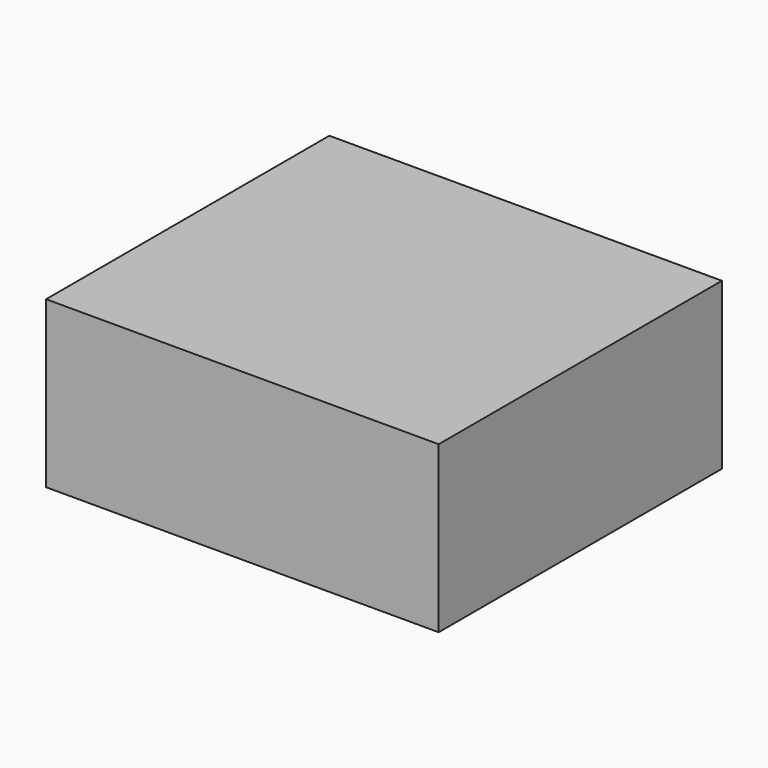
from build123d import *

# Parameters (mm, degrees)
F0_W      = 120.473326
F0_H      = 108.647734
F1_DEPTH  = 25
F3_R      = 5.08
F2_W      = 120.473326
F2_H      = 108.647734
F2_R      = 10.490665
F4_DEPTH  = 25.4
F4_FACE_W = 120.473326
F4_FACE_H = 108.647734
F4_FACE_R = 10.490665
F5_DEPTH  = 25.4


with BuildPart() as f1:
    # F0 (on Top) → F1 (new body)
    with BuildSketch(Plane.XY):
        Rectangle(F0_W, F0_H)
    extrude(amount=-F1_DEPTH)

    # F3
    f3_edges = [f1.edges().sort_by_distance(p)[0] for p in [
        (0, -54.323867, -25),
        (-60.236663, 0, -25),
        (0, 54.323867, -25),
        (60.236663, 0, -25),
        (60.236663, -54.323867, -12.5),
        (60.236663, 0, 0),
        (60.236663, 54.323867, -12.5),
        (-60.236663, -54.323867, -12.5),
        (0, -54.323867, 0),
        (-60.236663, 0, 0),
        (0, 54.323867, 0),
        (-60.236663, 54.323867, -12.5),
    ]]
    fillet(f3_edges, radius=F3_R)

    # F2 (on face) → F4 (join)
    with BuildSketch(Plane.XY):
        Rectangle(F2_W, F2_H)
        with Locations((-36.585487, -28.455362)):
            Circle(F2_R, mode=Mode.SUBTRACT)
        with Locations((36.585487, -28.455362)):
            Circle(F2_R, mode=Mode.SUBTRACT)
        with Locations((-36.585487, 28.455362)):
            Circle(F2_R, mode=Mode.SUBTRACT)
        with Locations((36.585487, 28.455362)):
            Circle(F2_R, mode=Mode.SUBTRACT)
    extrude(amount=-F4_DEPTH)

    # F4_face (on face) → F5 (join)
    with BuildSketch(Plane(origin=(0, 0, -25.4), x_dir=(1, 0, 0), z_dir=(0, 0, -1))):
        Rectangle(F4_FACE_W, F4_FACE_H)
        with Locations((-36.585487, 28.455362)):
            Circle(F4_FACE_R, mode=Mode.SUBTRACT)
        with Locations((36.585487, 28.455362)):
            Circle(F4_FACE_R, mode=Mode.SUBTRACT)
        with Locations((-36.585487, -28.455362)):
            Circle(F4_FACE_R, mode=Mode.SUBTRACT)
        with Locations((36.585487, -28.455362)):
            Circle(F4_FACE_R, mode=Mode.SUBTRACT)
    extrude(amount=F5_DEPTH)


solid = f1.part
